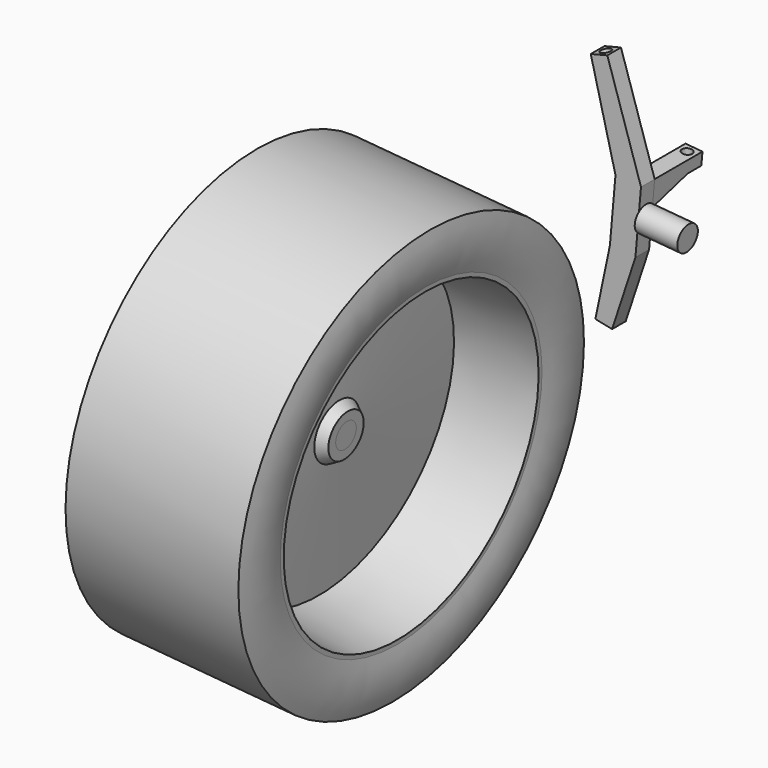
from build123d import *

# Parameters (mm, degrees)
F1_DEPTH  = 10
F2_R      = 15
F3_DEPTH  = 50
F6_DEPTH  = 20
F7_R      = 6
F8_DEPTH  = 141.6444196144
F9_R      = 6
F10_DEPTH = 20
F11_R     = 6
F12_DEPTH = 20
F18_DEPTH = 20
F19_R     = 6
F20_DEPTH = 306.7957135
F21_R     = 6
F22_DEPTH = 20
F23_R     = 6
F24_DEPTH = 20


with BuildPart() as f1:
    # F0 (on Front) → F1 (new body, symmetric)
    with BuildSketch(Plane.XZ):
        Polygon((61.5430337565, 48.9906095336), (22.1079817602, 171.9315649371), (2.7084239419, 167.0677026389), (31.6571928137, 51.605281816), (25.1205121076, -23.1093205409), (8.1089686022, -104.4361399324), (27.6852804739, -108.5310164267), (55.0063530504, -25.7239928233), align=None)
    extrude(amount=F1_DEPTH, both=True)

    # F2 (on face) → F3 (join)
    with BuildSketch(Plane(origin=(56.8219802377, 0, -4.9712791099), x_dir=(0, 1, 0), z_dir=(0.9961946981, 0, -0.0871557427))):
        with Locations((0, 16.6680142916)):
            Circle(F2_R)
    extrude(amount=F3_DEPTH)


with BuildPart() as f4_1:
    # F4: copy of F1
    add(f1.part.moved(Location((0, 500, 0))))

    # F17 (on face) → F18 (join)
    with BuildSketch(Plane(origin=(56.8219802377, 0, -4.9712791099), x_dir=(0, 1, 0), z_dir=(0.9961946981, 0, -0.0871557427))):
        Polygon((580, 54.1680142916), (510, 54.1680142916), (510, 24.1680142916), (560, 39.1680142916), (580, 39.1680142916), align=None)
    extrude(amount=-F18_DEPTH)

    # F19 (on face) → F20 (cut, through all)
    with BuildSketch(Plane(origin=(4.7210535188, 0, 53.9618886435), x_dir=(0.9961946981, 0, -0.0871557427), z_dir=(0.0871557427, 0, 0.9961946981))):
        with Locations((47.0390309711, 570)):
            Circle(F19_R)
    extrude(amount=-F20_DEPTH, mode=Mode.SUBTRACT)

    # F21 (on face) → F22 (cut)
    with BuildSketch(Plane(origin=(-39.249741247, 0, 156.5479402982), x_dir=(0.9699778909, 0, 0.2431931149), z_dir=(-0.2431931149, 0, 0.9699778909))):
        with Locations((53.2568263483, 500)):
            Circle(F21_R)
    extrude(amount=-F22_DEPTH, mode=Mode.SUBTRACT)

    # F23 (on face) → F24 (cut)
    with BuildSketch(Plane(origin=(-20.5897476425, 0, -98.4330838237), x_dir=(0.9788155936, 0, -0.2047438247), z_dir=(-0.2047438247, 0, -0.9788155936))):
        with Locations((39.3198396438, -500)):
            Circle(F23_R)
    extrude(amount=-F24_DEPTH, mode=Mode.SUBTRACT)


with BuildPart() as f1_1:
    add(f1.part)

    # F5 (on face) → F6 (join)
    with BuildSketch(Plane(origin=(56.8219802377, 0, -4.9712791099), x_dir=(0, 1, 0), z_dir=(0.9961946981, 0, -0.0871557427))):
        Polygon((-10, 27.8483541791), (-10, 54.1680142916), (-80, 54.1680142916), (-80, 39.1680142916), (-60, 39.1680142916), (-10, 24.1680142916), align=None)
    extrude(amount=-F6_DEPTH)

    # F7 (on face) → F8 (cut, through all)
    with BuildSketch(Plane(origin=(3.4137173775, 0, 39.0189681721), x_dir=(0.9961946981, 0, -0.0871557427), z_dir=(-0.0871557427, 0, -0.9961946981))):
        with Locations((47.0390309711, 70)):
            Circle(F7_R)
    extrude(amount=-F8_DEPTH, mode=Mode.SUBTRACT)

    # F9 (on face) → F10 (cut)
    with BuildSketch(Plane(origin=(-39.249741247, 0, 156.5479402982), x_dir=(0.9699778909, 0, 0.2431931149), z_dir=(-0.2431931149, 0, 0.9699778909))):
        with Locations((53.2568263483, 0)):
            Circle(F9_R)
    extrude(amount=-F10_DEPTH, mode=Mode.SUBTRACT)

    # F11 (on face) → F12 (cut)
    with BuildSketch(Plane(origin=(-20.5897476425, 0, -98.4330838237), x_dir=(0.9788155936, 0, -0.2047438247), z_dir=(-0.2047438247, 0, -0.9788155936))):
        with Locations((39.3198396438, 0)):
            Circle(F11_R)
    extrude(amount=-F12_DEPTH, mode=Mode.SUBTRACT)


with BuildPart() as f14:
    # F13 (on Front) → F14 (revolve)
    with BuildSketch(Plane.XZ):
        Polygon((60.5196446488, 37.2932185069), (59.5820295446, 26.5762288265), (109.3917644492, 22.2184416891), (110.3293795534, 32.9354313695), (100.1619629103, 40.9180785076), (107.3164212677, 185.3935078193), (200.5603324615, 185.3935078193), (200.9961111753, 190.3744813098), (-1.430651477, 208.0845282361), (-1.8664301907, 203.1035547456), (89.9608964742, 186.9119194883), (68.5394343396, 43.8543894201), align=None)
    revolve(axis=Axis((58.2746934034, 0, 11.6333083551), (-0.9961946981, 0, 0.0871557427)))


with BuildPart() as f16:
    # F15 (on Front) → F16 (revolve)
    with BuildSketch(Plane.XZ):
        with BuildLine():
            Line((206.3091252532, 251.1025101054), (3.8823626009, 268.8125570317))
            ThreePointArc((3.8823626009, 268.8125570317), (-3.2306354967, 238.8384350806), (-1.430651477, 208.0845282361))
            Line((-1.430651477, 208.0845282361), (200.9961111753, 190.3744813098))
            ThreePointArc((200.9961111753, 190.3744813098), (208.1091092729, 220.3486032608), (206.3091252532, 251.1025101054))
        make_face()
    revolve(axis=Axis((184.3929421818, 0, 0.5993913233), (-0.9961946981, 0, 0.0871557427)))


solid = Compound([f4_1.part, f1_1.part, f14.part, f16.part])
